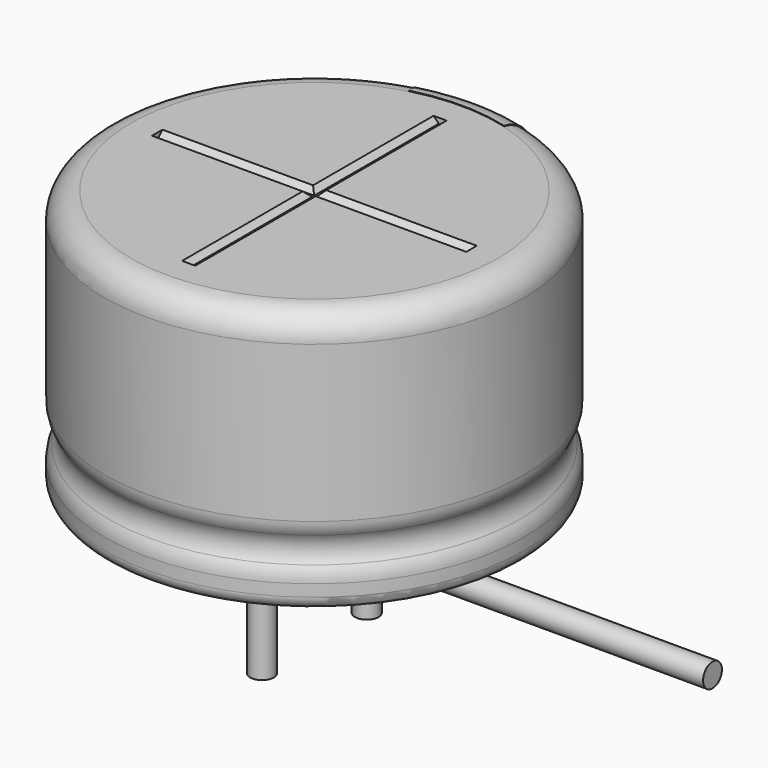
from build123d import *

# Parameters (mm, degrees)
SKETCH003_R         = 0.225
REVOLUTION001_ANGLE = -30
SKETCH015_W         = 0.25
SKETCH015_H         = 0.5
POCKET002_DEPTH     = 4.011
LINEARPATTERN_COUNT = 3
LINEARPATTERN_PITCH = 1.25
SKETCH010_R         = 0.225
PAD002_DEPTH        = 2.6
SKETCH013_R         = 3.5
PAD_DEPTH           = 0.5
POCKET001_DEPTH     = 3
POLARPATTERN_COUNT  = 3
POLARPATTERN_ANGLE  = 180
SKETCH012_R         = 3.5
POCKET_DEPTH        = 0.5


with BuildPart() as obj1:
    # AdditivePipe: sweep along a path in Sketch004
    with BuildLine(Plane.XZ) as additivepipe_path:
        Line((0, 0), (0, -0.5))
        ThreePointArc((0, -0.5), (0.292893, -1.207107), (1, -1.5))
        Line((1, -1.5), (6.6, -1.5))
    # Sketch003 (on ShapeBinder) → AdditivePipe (sweep)
    with BuildSketch(Plane(origin=(0, 0, 0), x_dir=(1, 0, 0), z_dir=(0, 0, -1))):
        with Locations((0, 1.25)):
            Circle(SKETCH003_R)
    sweep(path=additivepipe_path.line)


with BuildPart() as obj1_1:
    # Body003 placement: moved
    add(obj1.part.moved(Location((0, 2.5, 0))))


with BuildPart() as polaritymarking:
    # Sketch005 → Revolution001 (revolve)
    with BuildSketch(Plane(origin=(0, 0, 0), x_dir=(-0.258819, 0.965926, 0), z_dir=(0.965926, 0.258819, 0))):
        with BuildLine():
            Line((3.51, 0.25), (3.51, 5.01))
            ThreePointArc((3.51, 5.01), (3.863553, 4.863553), (4.01, 4.51))
            Line((4.01, 4.51), (4.01, 1.523941))
            ThreePointArc((4.01, 1.523941), (3.989134, 1.381006), (3.928278, 1.25))
            ThreePointArc((3.928278, 1.25), (3.853698, 1), (3.928278, 0.75))
            ThreePointArc((3.928278, 0.75), (3.989134, 0.618994), (4.01, 0.476059))
            Line((4.01, 0.476059), (4.01, 0.25))
            ThreePointArc((4.01, 0.25), (3.76, 0), (3.51, 0.25))
        make_face()
    revolve(axis=Axis((0, 0, 0), (0, 0, 1)), revolution_arc=REVOLUTION001_ANGLE)

    # Sketch015 → Pocket002 (cut, through all)
    with BuildSketch(Plane.XZ):
        with Locations((0, 1.75)):
            Rectangle(SKETCH015_W, SKETCH015_H)
    pocket002 = extrude(amount=-POCKET002_DEPTH, mode=Mode.SUBTRACT)

    # LinearPattern: Pocket002 ×3
    with Locations(*[(0, 0, i * LINEARPATTERN_PITCH) for i in range(1, LINEARPATTERN_COUNT)]):
        add(pocket002, mode=Mode.SUBTRACT)


with BuildPart() as obj2:
    # Sketch010 → Pad002 (new body)
    with BuildSketch(Plane(origin=(0, 1.25, 0), x_dir=(1, 0, 0), z_dir=(0, 0, 1))):
        Circle(SKETCH010_R)
    extrude(amount=-PAD002_DEPTH)


with BuildPart() as obj3:
    # Body007 base: copy of obj2
    add(obj2.part)


with BuildPart() as obj3_1:
    # Body007 placement: moved
    add(obj3.part.moved(Location((0, -2.5, 0))))


with BuildPart() as housingtop:
    # Sketch013 (on ShapeBinder) → Pad (new body)
    with BuildSketch(Plane.XY.offset(4.5)):
        Circle(SKETCH013_R)
    extrude(amount=PAD_DEPTH)

    # Sketch014 → Pocket001 (cut, symmetric)
    with BuildSketch(Plane.XZ):
        Polygon((-0.125, 5), (0.125, 5), (0.025, 4.9), (-0.025, 4.9), align=None)
    pocket001 = extrude(amount=POCKET001_DEPTH, both=True, mode=Mode.SUBTRACT)

    # PolarPattern: Pocket001 ×3 about axis
    polarpattern_axis = Axis((0, 0, 0), (0, 0, 1))
    for i in range(1, POLARPATTERN_COUNT):
        add(pocket001.rotate(polarpattern_axis, i * POLARPATTERN_ANGLE / (POLARPATTERN_COUNT - 1)), mode=Mode.SUBTRACT)


with BuildPart() as fusion:
    # Sketch → Revolution (revolve)
    with BuildSketch(Plane.XZ):
        with BuildLine():
            Line((0, 5), (3.5, 5))
            ThreePointArc((4, 4.5), (3.853553, 4.853553), (3.5, 5))
            Line((4, 4.5), (4, 1.523941))
            ThreePointArc((3.918278, 1.25), (3.979134, 1.381006), (4, 1.523941))
            ThreePointArc((3.918278, 1.25), (3.843698, 1), (3.918278, 0.75))
            ThreePointArc((4, 0.476059), (3.979134, 0.618994), (3.918278, 0.75))
            Line((4, 0.476059), (4, 0.25))
            ThreePointArc((3.75, 0), (3.926777, 0.073223), (4, 0.25))
            Line((0, 0), (3.75, 0))
            Line((0, 5), (0, 0))
        make_face()
    revolve(axis=Axis((0, 0, 0), (0, 0, 1)))

    # Sketch012 → Pocket (cut)
    with BuildSketch(Plane.XY.offset(5)):
        Circle(SKETCH012_R)
    extrude(amount=-POCKET_DEPTH, mode=Mode.SUBTRACT)

    # Fusion: union PolarityMarking, obj2, obj3, HousingTop
    add(polaritymarking.part)
    add(obj2.part)
    add(obj3_1.part)
    add(housingtop.part)


solid = Compound([obj1_1.part, fusion.part])
